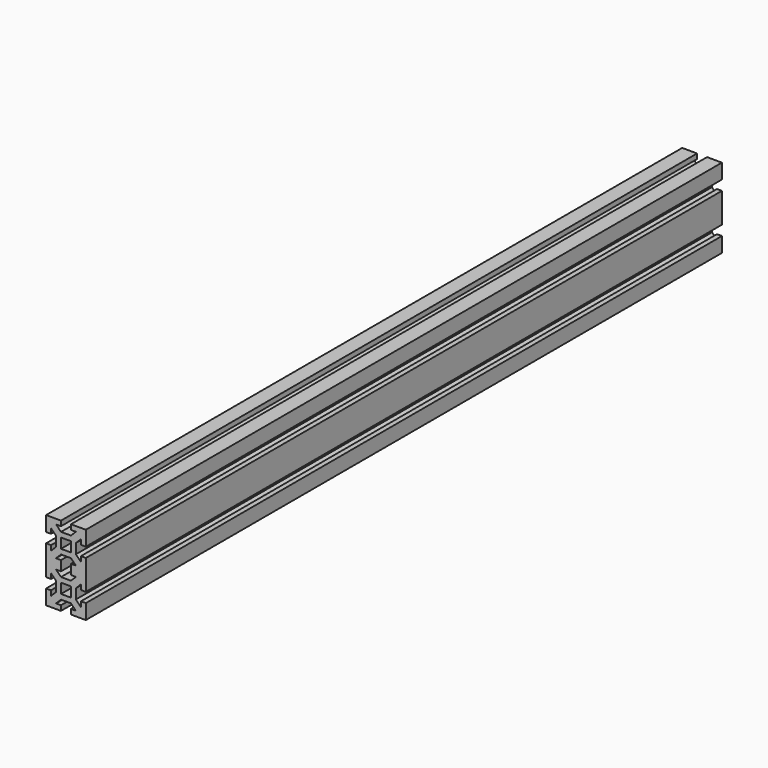
from build123d import *

# Parameters (mm, degrees)
F1_DEPTH = 800


with BuildPart() as f1:
    # F0 (on Front) → F1 (new body)
    with BuildSketch(Plane.XZ):
        Polygon((5, -20), (20, -20), (20, -5), (15, -5), (15, -10), (10, -5), (10, 5), (15, 10), (15, 5), (20, 5), (20, 20), (20, 35), (15, 35), (15, 30), (10, 35), (10, 45), (15, 50), (15, 45), (20, 45), (20, 60), (5, 60), (5, 55), (10, 55), (5, 50), (-5, 50), (-10, 55), (-5, 55), (-5, 60), (-20, 60), (-20, 45), (-15, 45), (-15, 50), (-10, 45), (-10, 35), (-15, 30), (-15, 35), (-20, 35), (-20, 20), (-20, 5), (-15, 5), (-15, 10), (-10, 5), (-10, -5), (-15, -10), (-15, -5), (-20, -5), (-20, -20), (-5, -20), (-5, -15), (-10, -15), (-5, -10), (5, -10), (10, -15), (5, -15), align=None)
        Polygon((-5, 0), (-5, 5), (0, 5), (5, 5), (5, 0), (5, -5), (0, -5), (-5, -5), align=None, mode=Mode.SUBTRACT)
        Polygon((-5, 15), (-5, 20), (-5, 25), (-10, 25), (-5, 30), (5, 30), (10, 25), (5, 25), (5, 20), (5, 15), (10, 15), (5, 10), (-5, 10), (-10, 15), align=None, mode=Mode.SUBTRACT)
        Polygon((-5, 40), (-5, 45), (0, 45), (5, 45), (5, 40), (5, 35), (0, 35), (-5, 35), align=None, mode=Mode.SUBTRACT)
    extrude(amount=F1_DEPTH)


solid = f1.part
